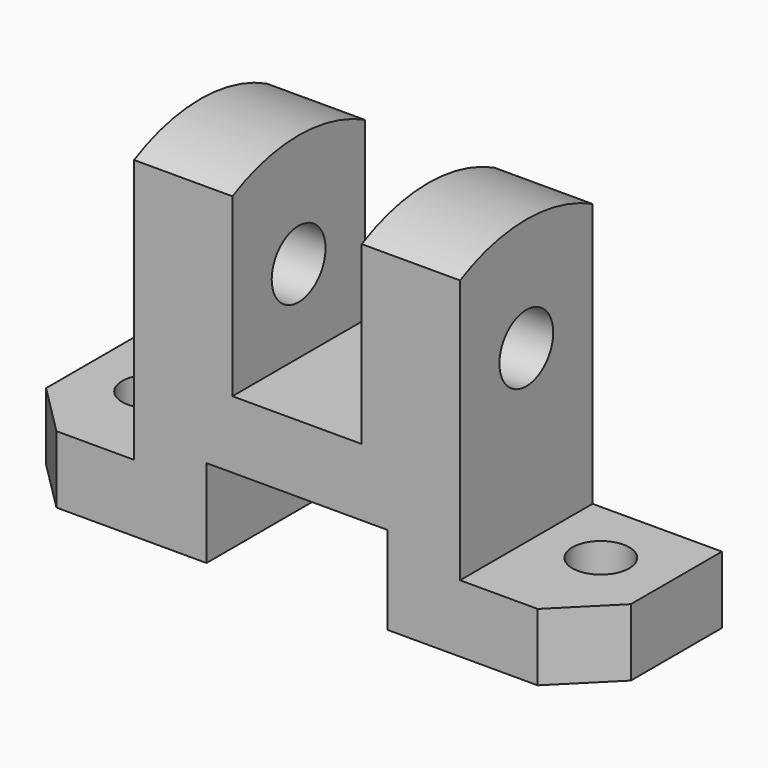
from build123d import *

# Parameters (mm, degrees)
F1_DEPTH  = 32
F2_R      = 6.5
F3_DEPTH  = 19
F4_R      = 6.5
F5_DEPTH  = 19
F7_DEPTH  = 13
F8_R      = 5.5
F9_DEPTH  = 13
F11_DEPTH = 19
F13_DEPTH = 19


with BuildPart() as f1:
    # F0 (on Front) → F1 (new body)
    with BuildSketch(Plane.XZ):
        Polygon((0, 13), (0, 0), (39, 0), (39, 17), (74, 17), (74, 0), (113, 0), (113, 13), (88, 13), (88, 64.010125), (69, 64.010125), (69, 30), (44, 30), (44, 64.010125), (25, 64.010125), (25, 13), align=None)
    extrude(amount=F1_DEPTH)

    # F2 (on face) → F3 (cut, through all)
    with BuildSketch(Plane.YZ.offset(88)):
        with Locations((-16, 46)):
            Circle(F2_R)
    extrude(amount=-F3_DEPTH, mode=Mode.SUBTRACT)

    # F4 (on face) → F5 (cut, through all)
    with BuildSketch(Plane(origin=(25, 0, 0), x_dir=(0, -1, 0), z_dir=(-1, 0, 0))):
        with Locations((16, 46)):
            Circle(F4_R)
    extrude(amount=-F5_DEPTH, mode=Mode.SUBTRACT)

    # F6 (on Top) → F7 (cut, through all)
    with BuildSketch(Plane.XY):
        Polygon((0, -22), (0, -32), (10, -32), align=None)
        Polygon((113, -22), (103, -32), (113, -32), align=None)
    extrude(amount=F7_DEPTH, mode=Mode.SUBTRACT)

    # F8 (on Top) → F9 (cut, through all)
    with BuildSketch(Plane.XY):
        with Locations((13, -13)):
            Circle(F8_R)
        with Locations((100, -13)):
            Circle(F8_R)
    extrude(amount=F9_DEPTH, mode=Mode.SUBTRACT)

    # F10 (on face) → F11 (join)
    with BuildSketch(Plane.YZ.offset(88)):
        with BuildLine():
            Line((-32, 64.010125), (0, 64.010125))
            ThreePointArc((0, 64.010125), (-16, 67.88136), (-32, 64.010125))
        make_face()
    extrude(amount=-F11_DEPTH)

    # F12 (on face) → F13 (join)
    with BuildSketch(Plane(origin=(25, 0, 0), x_dir=(0, -1, 0), z_dir=(-1, 0, 0))):
        with BuildLine():
            Line((0, 64.010125), (32, 64.010125))
            ThreePointArc((32, 64.010125), (16, 67.88136), (0, 64.010125))
        make_face()
    extrude(amount=-F13_DEPTH)


solid = f1.part
